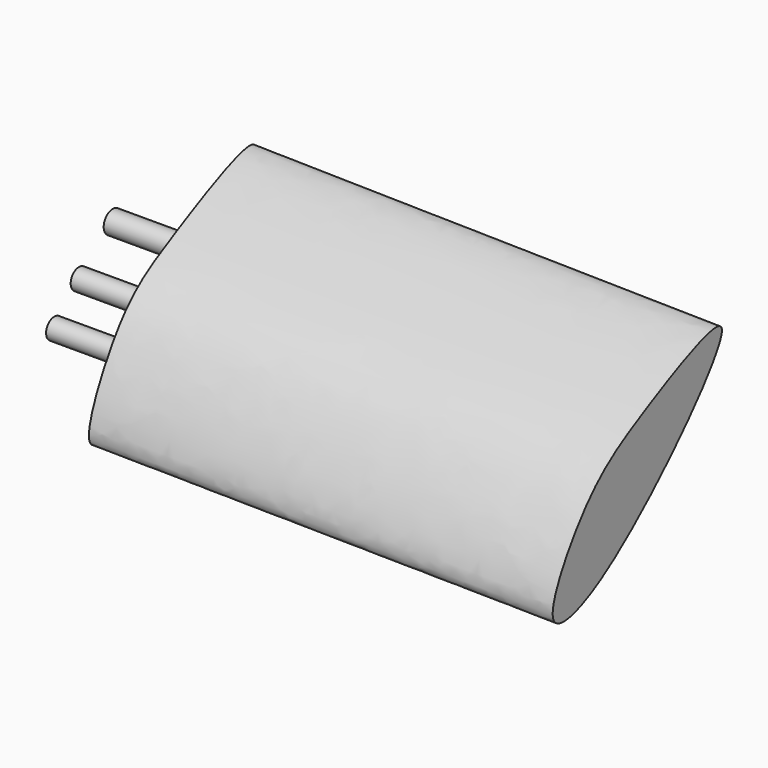
from build123d import *

# Parameters (mm, degrees)
F4_R     = 3.7642677445
F4_R_2   = 3.4683059597
F4_R_3   = 3.4434090322
F5_DEPTH = 25.4


with BuildPart() as f3:
    # F2 (on offset) → F3 section 0
    with BuildSketch(Plane.YZ.offset(157.4308425188)):
        with BuildLine():
            add(Edge.make_bspline(
                [(0, 0), (-12.104644098, -6.3263168889), (-25.8820610041, -14.6136318994), (-47.8781855597, -52.5526708502), (-15.1609022465, -47.143178944), (53.8601710207, 26.7993739174), (11.9120155475, 6.2256423674), (0, 0)],
                knots=[0, 0, 0, 0, 0.1920446361, 0.3741659284, 0.5277277836, 0.8110114868, 1, 1, 1, 1], degree=3))
        make_face()
    # F0 (on Right) → F3 section 1
    with BuildSketch(Plane.YZ):
        with BuildLine():
            add(Edge.make_bspline(
                [(0, 0), (-11.4863605542, -5.9808116248), (-23.7079853047, -12.9240739578), (-43.9479848114, -53.9035395464), (-13.4752914458, -44.6437869025), (57.5158608034, 29.1418474769), (12.2926695837, 6.4006471675), (0, 0)],
                knots=[0, 0, 0, 0, 0.1834861231, 0.3694876095, 0.5199065669, 0.8036336859, 1, 1, 1, 1], degree=3))
        make_face()
    loft()

    # F4 (on face) → F5 (join)
    with BuildSketch(Plane(origin=(0, 0, 0), x_dir=(0, -1, 0), z_dir=(-1, 0, 0))):
        with Locations((-5.0992490724, -7.5565879233)):
            Circle(F4_R)
        with Locations((8.9653758332, -18.5892935842)):
            Circle(F4_R_2)
        with Locations((19.241169095, -28.9655476809)):
            Circle(F4_R_3)
        with Locations((19.241169095, -28.9655476809)):
            Circle(F4_R_3)
    extrude(amount=F5_DEPTH)


solid = f3.part
